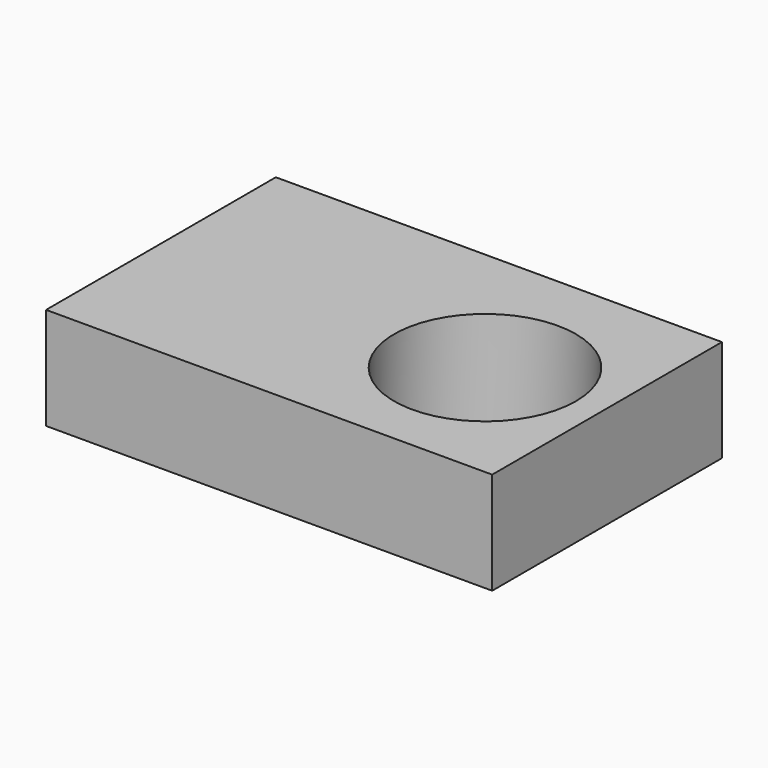
from build123d import *

# Parameters (mm, degrees)
F0_W     = 110.8541414142
F0_H     = 71.3585466146
F2_DEPTH = 25.4
F1_R     = 22.5809105665


with BuildPart() as f2:
    # F0 (on Top) → F2 (new body)
    with BuildSketch(Plane.XY):
        with Locations((7.4085779488, 1.4397576451)):
            Rectangle(F0_W, F0_H)
    extrude(amount=F2_DEPTH)


with BuildPart() as f2b:
    # F1 (on Top) → F2, piece 2 (new body)
    with BuildSketch(Plane.XY):
        with Locations((33.6664095521, 0)):
            Circle(F1_R)
    extrude(amount=F2_DEPTH)


with BuildPart() as f2_1:
    add(f2.part)

    # F3: cut F2b
    add(f2b.part, mode=Mode.SUBTRACT)


solid = f2_1.part
